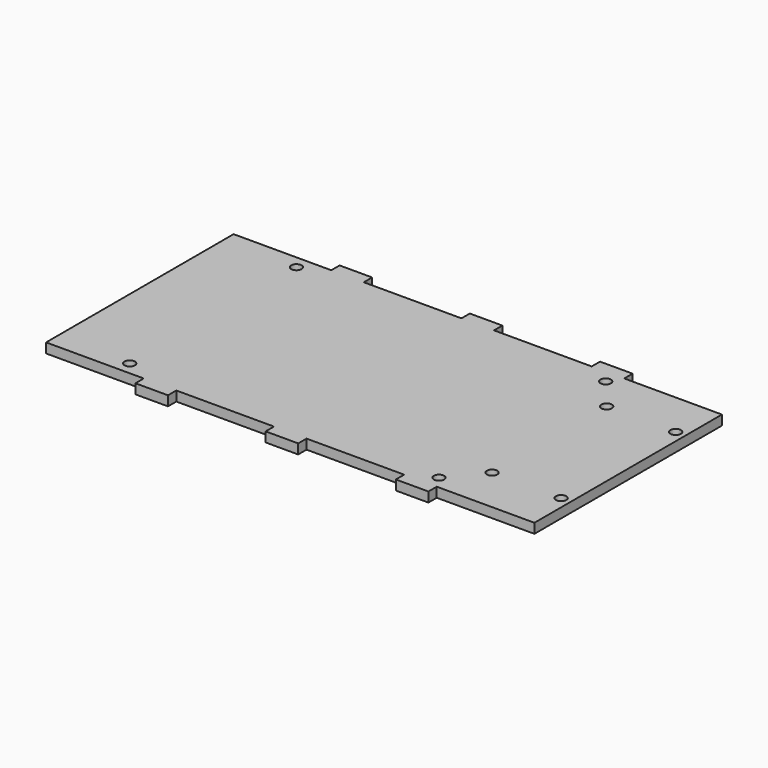
from build123d import *

# Parameters (mm, degrees)
F0_R     = 1.6
F1_DEPTH = 3


with BuildPart() as f1:
    # F0 (on Top) → F1 (new body)
    with BuildSketch(Plane.XY):
        Polygon((-45, 36), (-75, 36), (-75, -36), (-45, -36), (-45, -39.2), (-35, -39.2), (-35, -36), (-5.533858, -36), (-5, -36), (-5, -39.2), (5, -39.2), (5, -36), (5.533858, -36), (35, -36), (35, -39.2), (45, -39.2), (45, -36), (75, -36), (75, 36), (45, 36), (45, 39.2), (35, 39.2), (35, 36), (5.533858, 36), (5, 36), (5, 39.2), (-5, 39.2), (-5, 36), (-5.533858, 36), (-35, 36), (-35, 39.2), (-45, 39.2), align=None)
        with Locations((-52.5, -32)):
            Circle(F0_R, mode=Mode.SUBTRACT)
        with Locations((42.5, -32)):
            Circle(F0_R, mode=Mode.SUBTRACT)
        with Locations((50.8, -22)):
            Circle(F0_R, mode=Mode.SUBTRACT)
        with Locations((72, -22)):
            Circle(F0_R, mode=Mode.SUBTRACT)
        with Locations((-52.5, 32)):
            Circle(F0_R, mode=Mode.SUBTRACT)
        with Locations((50.8, 22)):
            Circle(F0_R, mode=Mode.SUBTRACT)
        with Locations((72, 22)):
            Circle(F0_R, mode=Mode.SUBTRACT)
        with Locations((42.5, 32)):
            Circle(F0_R, mode=Mode.SUBTRACT)
    extrude(amount=F1_DEPTH)


solid = f1.part
